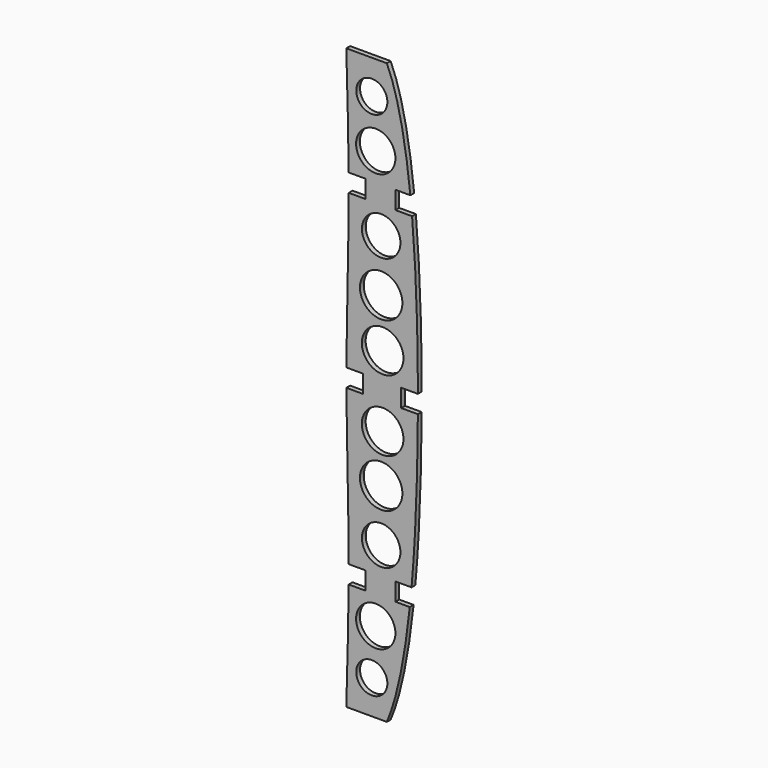
from build123d import *

# Parameters (mm, degrees)
F0_R     = 17.789827
F0_R_2   = 16.122829
F0_R_3   = 17.435886
F0_R_4   = 16.480186
F0_R_5   = 13.049133
F1_DEPTH = 4


with BuildPart() as f1:
    # F0 (on Front) → F1 (new body)
    with BuildSketch(Plane.XZ):
        with BuildLine():
            Line((128.107603, -34.568384), (160.109099, -34.568384))
            Line((160.109099, -34.568384), (160.109099, -27.068384))
            Line((160.109099, -27.068384), (174.109099, -27.068384))
            add(Edge.make_bspline(
                [(169.24465, 102.431616), (172.691915, 62.91882), (174.04711, 17.96585), (174.109099, -27.068384)],
                knots=[126.909658, 126.909658, 126.909658, 126.909658, 238.208295, 238.208295, 238.208295, 238.208295], degree=3))
            Line((169.24465, 102.431616), (155.24465, 102.431616))
            Line((155.24465, 102.431616), (155.24465, 109.931616))
            Line((155.24465, 109.931616), (130.150168, 109.931616))
            Line((130.150168, 109.931616), (130.150168, 102.431616))
            Line((130.150168, 102.431616), (116.150168, 102.431616))
            add(Edge.make_bspline(
                [(116.150168, 102.431616), (116.157251, 97.264949), (116.144052, 92.098282), (116.107603, 86.931616)],
                knots=[106.01436, 106.01436, 106.01436, 106.01436, 121.51646, 121.51646, 121.51646, 121.51646], degree=3))
            add(Edge.make_bspline(
                [(116.107603, 86.931616), (115.839525, 48.931616), (114.313799, 10.931616), (114.12646, -27.068384)],
                knots=[121.51646, 121.51646, 121.51646, 121.51646, 235.531904, 235.531904, 235.531904, 235.531904], degree=3))
            Line((114.12646, -27.068384), (128.107603, -27.068384))
            Line((128.107603, -27.068384), (128.107603, -34.568384))
        make_face()
        with Locations((143.329501, 35.698157)):
            Circle(F0_R, mode=Mode.SUBTRACT)
        with Locations((143.329501, 79.504788)):
            Circle(F0_R_2, mode=Mode.SUBTRACT)
        with Locations((144.569308, -4.802315)):
            Circle(F0_R_3, mode=Mode.SUBTRACT)
        with BuildLine():
            Line((155.24465, 117.431616), (167.805281, 117.431616))
            add(Edge.make_bspline(
                [(148.107603, 208.431616), (157.469501, 188.064638), (163.759947, 155.883562), (167.805281, 117.431616)],
                knots=[0, 0, 0, 0, 112.560289, 112.560289, 112.560289, 112.560289], degree=3))
            Line((148.107603, 208.431616), (114.107603, 208.431616))
            add(Edge.make_bspline(
                [(114.107603, 208.431616), (114.96357, 178.098282), (115.819537, 147.764949), (116.075302, 117.431616)],
                knots=[0, 0, 0, 0, 91.012328, 91.012328, 91.012328, 91.012328], degree=3))
            Line((116.075302, 117.431616), (116.150168, 117.431616))
            Line((116.150168, 117.431616), (130.150168, 117.431616))
            Line((130.150168, 117.431616), (130.150168, 109.931616))
            Line((130.150168, 109.931616), (155.24465, 109.931616))
            Line((155.24465, 109.931616), (155.24465, 117.431616))
        make_face()
        with Locations((138.783529, 140.668765)):
            Circle(F0_R_4, mode=Mode.SUBTRACT)
        with Locations((135.477364, 179.929435)):
            Circle(F0_R_5, mode=Mode.SUBTRACT)
        with BuildLine():
            Line((160.109099, -42.068384), (160.109099, -34.568384))
            Line((160.109099, -34.568384), (128.107603, -34.568384))
            Line((128.107603, -34.568384), (128.107603, -42.068384))
            Line((128.107603, -42.068384), (114.12646, -42.068384))
            add(Edge.make_bspline(
                [(114.12646, -42.068384), (114.313799, -80.068384), (115.839525, -118.068384), (116.107603, -156.068384)],
                knots=[250.533936, 250.533936, 250.533936, 250.533936, 364.549379, 364.549379, 364.549379, 364.549379], degree=3))
            add(Edge.make_bspline(
                [(116.107603, -156.068384), (116.144052, -161.235051), (116.157251, -166.401718), (116.150168, -171.568384)],
                knots=[364.549379, 364.549379, 364.549379, 364.549379, 380.051479, 380.051479, 380.051479, 380.051479], degree=3))
            Line((116.150168, -171.568384), (130.150168, -171.568384))
            Line((130.150168, -171.568384), (130.150168, -179.068384))
            Line((130.150168, -179.068384), (130.150168, -186.568384))
            Line((130.150168, -186.568384), (116.150168, -186.568384))
            Line((116.150168, -186.568384), (116.075302, -186.568384))
            add(Edge.make_bspline(
                [(116.075302, -186.568384), (115.819537, -216.901718), (114.96357, -247.235051), (114.107603, -277.568384)],
                knots=[395.053511, 395.053511, 395.053511, 395.053511, 486.065839, 486.065839, 486.065839, 486.065839], degree=3))
            Line((114.107603, -277.568384), (148.107603, -277.568384))
            add(Edge.make_bspline(
                [(167.317003, -186.568384), (163.250156, -224.455468), (157.083255, -256.397009), (148.107603, -277.568384)],
                knots=[377.036866, 377.036866, 377.036866, 377.036866, 488.773976, 488.773976, 488.773976, 488.773976], degree=3))
            Line((167.317003, -186.568384), (155.24465, -186.568384))
            Line((155.24465, -186.568384), (155.24465, -179.068384))
            Line((155.24465, -179.068384), (155.24465, -171.568384))
            Line((155.24465, -171.568384), (168.792157, -171.568384))
            add(Edge.make_bspline(
                [(174.082738, -42.068384), (173.861315, -87.342067), (172.335726, -132.128552), (168.792157, -171.568384)],
                knots=[250.568896, 250.568896, 250.568896, 250.568896, 362.574274, 362.574274, 362.574274, 362.574274], degree=3))
            Line((174.082738, -42.068384), (160.109099, -42.068384))
        make_face()
        with Locations((135.477364, -249.066204)):
            Circle(F0_R_5, mode=Mode.SUBTRACT)
        with Locations((138.783529, -209.805533)):
            Circle(F0_R_4, mode=Mode.SUBTRACT)
        with Locations((143.329501, -148.641557)):
            Circle(F0_R_2, mode=Mode.SUBTRACT)
        with Locations((143.329501, -104.834925)):
            Circle(F0_R, mode=Mode.SUBTRACT)
        with Locations((144.569308, -64.334454)):
            Circle(F0_R_3, mode=Mode.SUBTRACT)
    extrude(amount=F1_DEPTH)


solid = f1.part
